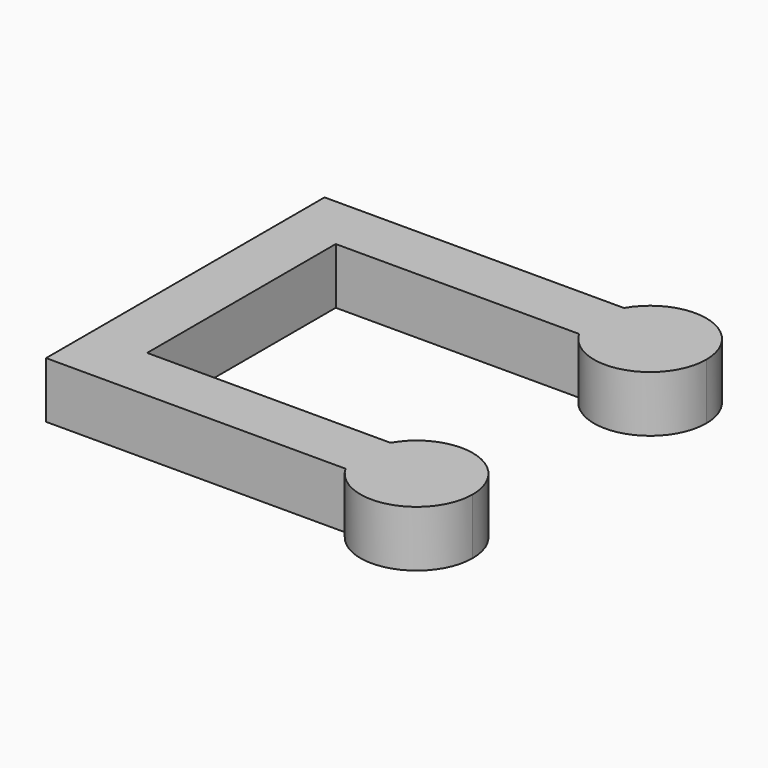
from build123d import *

# Parameters (mm, degrees)
F2_DEPTH = 5


with BuildPart() as f2:
    # F1 (on Top) → F2 (new body)
    with BuildSketch(Plane.XY):
        Polygon((-10.5, -10.5), (-10.5, 10.5), (-15.5, 10.5), (-15.5, -15.5), (-10.5, -15.5), align=None)
        Polygon((-10.5, -10.5), (-10.5, 10.5), (-15.5, 10.5), (-15.5, -15.5), (-10.5, -15.5), align=None)
        Polygon((-10.5, -10.5), (-10.5, 10.5), (-15.5, 10.5), (-15.5, -15.5), (-10.5, -15.5), align=None)
        with BuildLine():
            Line((-10.5, 10.5), (10.5, 10.5))
            Line((10.5, 10.5), (11.1698729811, 10.5))
            ThreePointArc((11.1698729811, 10.5), (10.5, 13), (11.1698729811, 15.5))
            Line((11.1698729811, 15.5), (-15.5, 15.5))
            Line((-15.5, 15.5), (-15.5, 10.5))
            Line((-15.5, 10.5), (-10.5, 10.5))
        make_face()
        with BuildLine():
            ThreePointArc((11.1698729811, 15.5), (10.5, 13), (11.1698729811, 10.5))
            Line((11.1698729811, 10.5), (15.5, 10.5))
            Line((15.5, 10.5), (15.5, 15.5))
            Line((15.5, 15.5), (11.1698729811, 15.5))
        make_face()
        with BuildLine():
            Line((15.5, 10.5), (11.1698729811, 10.5))
            ThreePointArc((11.1698729811, 10.5), (16.7940952255, 8.1703708686), (20.5, 13))
            ThreePointArc((20.5, 13), (16.7940952255, 17.8296291314), (11.1698729811, 15.5))
            Line((11.1698729811, 15.5), (15.5, 15.5))
            Line((15.5, 15.5), (15.5, 10.5))
        make_face()
        with BuildLine():
            Line((11.1698729811, -10.5), (10.5, -10.5))
            Line((10.5, -10.5), (-10.5, -10.5))
            Line((-10.5, -10.5), (-10.5, -15.5))
            Line((-10.5, -15.5), (11.1698729811, -15.5))
            ThreePointArc((11.1698729811, -15.5), (10.5, -13), (11.1698729811, -10.5))
        make_face()
        with BuildLine():
            Line((15.5, -10.5), (11.1698729811, -10.5))
            ThreePointArc((11.1698729811, -10.5), (10.5, -13), (11.1698729811, -15.5))
            Line((11.1698729811, -15.5), (15.5, -15.5))
            Line((15.5, -15.5), (15.5, -10.5))
        make_face()
        with BuildLine():
            ThreePointArc((20.5, -13), (16.7940952255, -8.1703708686), (11.1698729811, -10.5))
            Line((11.1698729811, -10.5), (15.5, -10.5))
            Line((15.5, -10.5), (15.5, -15.5))
            Line((15.5, -15.5), (11.1698729811, -15.5))
            ThreePointArc((11.1698729811, -15.5), (16.7940952255, -17.8296291314), (20.5, -13))
        make_face()
    extrude(amount=F2_DEPTH)


solid = f2.part
